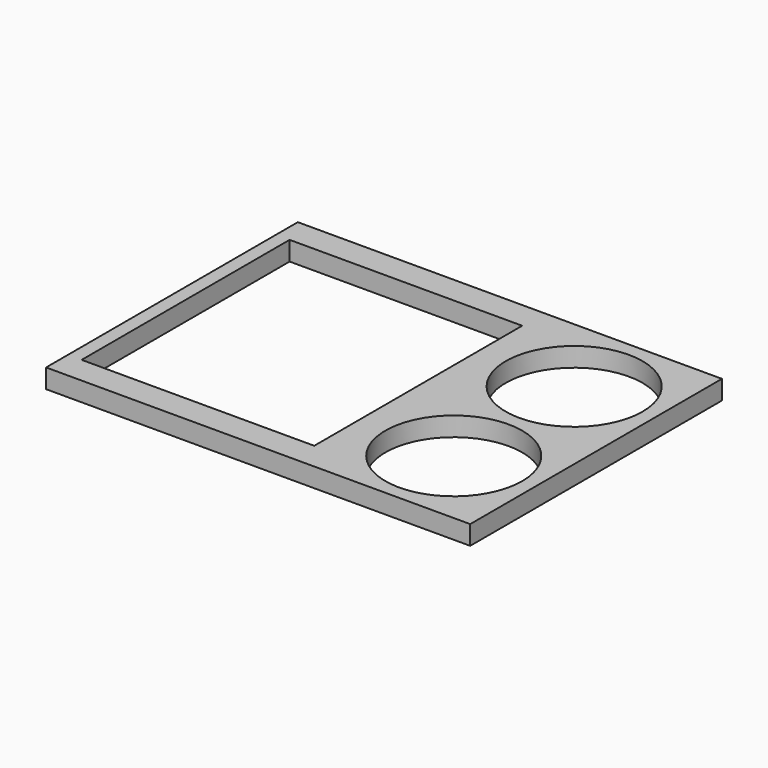
from build123d import *

# Parameters (mm, degrees)
F0_W     = 196.85
F0_H     = 146.05
F0_R     = 31.75
F0_W_2   = 107.95
F0_H_2   = 120.65
F1_DEPTH = 8.89


with BuildPart() as f1:
    # F0 (on Top) → F1 (new body)
    with BuildSketch(Plane.XY):
        with Locations((98.425, -73.025)):
            Rectangle(F0_W, F0_H)
        with Locations((158.75, -107.95)):
            Circle(F0_R, mode=Mode.SUBTRACT)
        with Locations((60.325, -73.025)):
            Rectangle(F0_W_2, F0_H_2, mode=Mode.SUBTRACT)
        with Locations((158.75, -38.1)):
            Circle(F0_R, mode=Mode.SUBTRACT)
    extrude(amount=F1_DEPTH)


solid = f1.part
